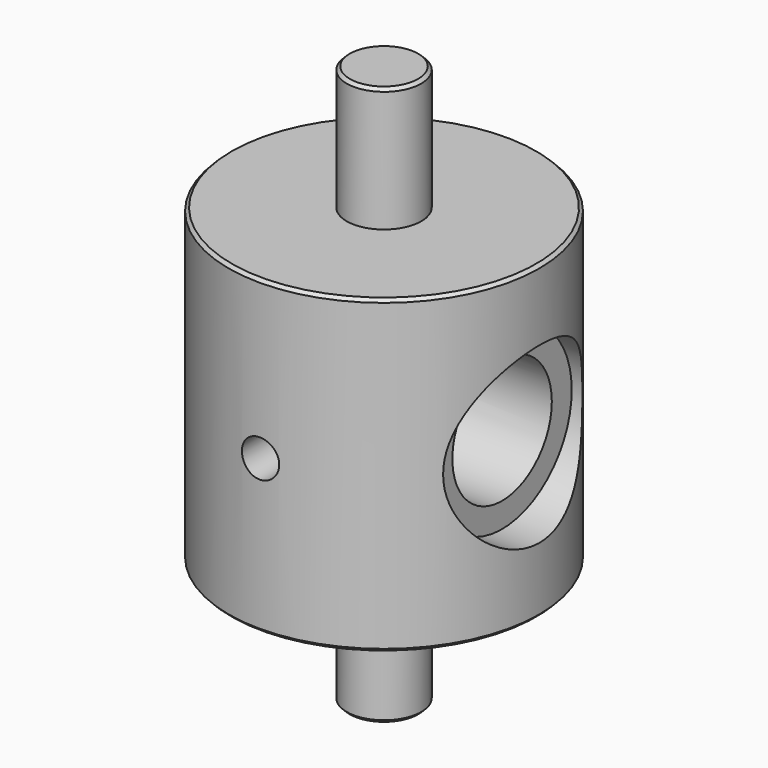
from build123d import *

# Parameters (mm, degrees)
F2_SIZE  = 0.25
F3_R     = 1.5
F5_DEPTH = 12.5
F4_R     = 5
F6_DEPTH = 12.5
F8_START = 9.5
F7_R     = 7
F8_DEPTH = 4.5


with BuildPart() as f1:
    # F0 (on Front) → F1 (revolve)
    with BuildSketch(Plane.XZ):
        Polygon((0, -22.3108624175), (0, 22.6891375825), (-3, 22.6891375825), (-3, 12.6891375825), (-12.5, 12.6891375825), (-12.5, -12.3108624175), (-3, -12.3108624175), (-3, -22.3108624175), align=None)
    revolve(axis=Axis((0, 0, 0.1891375825), (0, 0, -1)))

    # F2
    f2_edges = [f1.edges().sort_by_distance(p)[0] for p in [
        (3, 0, 22.689138),
        (3, 0, -22.310862),
        (12.5, 0, 12.689138),
        (12.5, 0, -12.310862),
    ]]
    chamfer(f2_edges, length=F2_SIZE)

    # F3 (on Front) → F5 (cut, symmetric)
    with BuildSketch(Plane.XZ):
        Circle(F3_R)
    extrude(amount=F5_DEPTH, both=True, mode=Mode.SUBTRACT)

    # F4 (on Right) → F6 (cut, symmetric)
    with BuildSketch(Plane.YZ):
        Circle(F4_R)
    extrude(amount=F6_DEPTH, both=True, mode=Mode.SUBTRACT)

    # F7 (on Right) → F8 (cut)
    with BuildSketch(Plane.YZ.offset(F8_START)):
        Circle(F7_R)
    extrude(amount=F8_DEPTH, mode=Mode.SUBTRACT)


solid = f1.part
